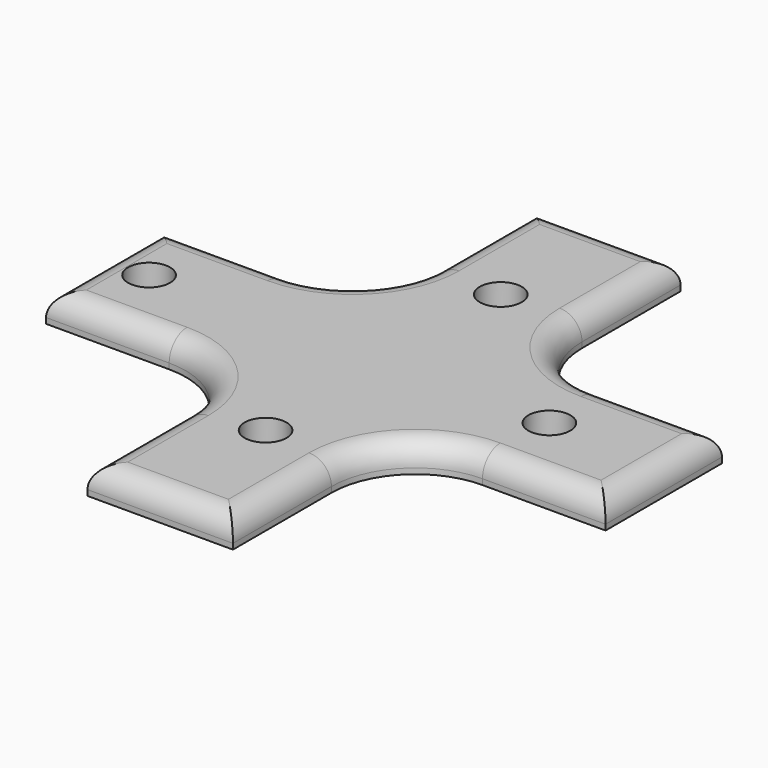
from build123d import *

# Parameters (mm, degrees)
F0_R     = 7.5
F0_W     = 52
F0_H     = 52
F1_DEPTH = 10
F2_T     = -2.5
F3_R     = 8


with BuildPart() as f1:
    # F0 (on Top) → F1 (new body)
    with BuildSketch(Plane.XY):
        Polygon((-26, -100), (26, -100), (26, -56), (26, -26), (-26, -26), (-26, -56), align=None)
        with Locations((0, -52.9112443328)):
            Circle(F0_R, mode=Mode.SUBTRACT)
        with BuildLine():
            Line((26, -26), (26, -56))
            ThreePointArc((26, -56), (34.7867965644, -34.7867965644), (56, -26))
            Line((56, -26), (26, -26))
        make_face()
        with BuildLine():
            ThreePointArc((-56, -26), (-34.7867965644, -34.7867965644), (-26, -56))
            Line((-26, -56), (-26, -26))
            Line((-26, -26), (-56, -26))
        make_face()
        Polygon((26, 26), (26, -26), (56, -26), (100, -26), (100, 26), (56, 26), align=None)
        with Locations((59.1130256653, 0)):
            Circle(F0_R, mode=Mode.SUBTRACT)
        Polygon((-56, -26), (-26, -26), (-26, 26), (-56, 26), (-100, 26), (-100, -26), align=None)
        with Locations((-83.977087408, 0)):
            Circle(F0_R, mode=Mode.SUBTRACT)
        Polygon((-26, 26), (26, 26), (26, 56), (26, 100), (-26, 100), (-26, 56), align=None)
        with Locations((0, 52.160911262)):
            Circle(F0_R, mode=Mode.SUBTRACT)
        with BuildLine():
            Line((26, 56), (26, 26))
            Line((26, 26), (56, 26))
            ThreePointArc((56, 26), (34.7867965644, 34.7867965644), (26, 56))
        make_face()
        with BuildLine():
            Line((-56, 26), (-26, 26))
            Line((-26, 26), (-26, 56))
            ThreePointArc((-26, 56), (-34.7867965644, 34.7867965644), (-56, 26))
        make_face()
        Rectangle(F0_W, F0_H)
    extrude(amount=F1_DEPTH)

    # F2
    f2_openings = [f1.faces().sort_by_distance(p)[0] for p in [
        (0.241929, 0.007301, 0),
    ]]
    offset(amount=F2_T, openings=f2_openings)

    # F3
    f3_edges = [f1.edges().sort_by_distance(p)[0] for p in [
        (34.786797, 34.786797, 10),
        (100, 0, 10),
        (78, -26, 10),
        (34.786797, -34.786797, 10),
        (0, 100, 10),
        (-26, 78, 10),
        (-34.786797, -34.786797, 10),
        (-100, 0, 10),
        (0, -100, 10),
    ]]
    fillet(f3_edges, radius=F3_R)


solid = f1.part
